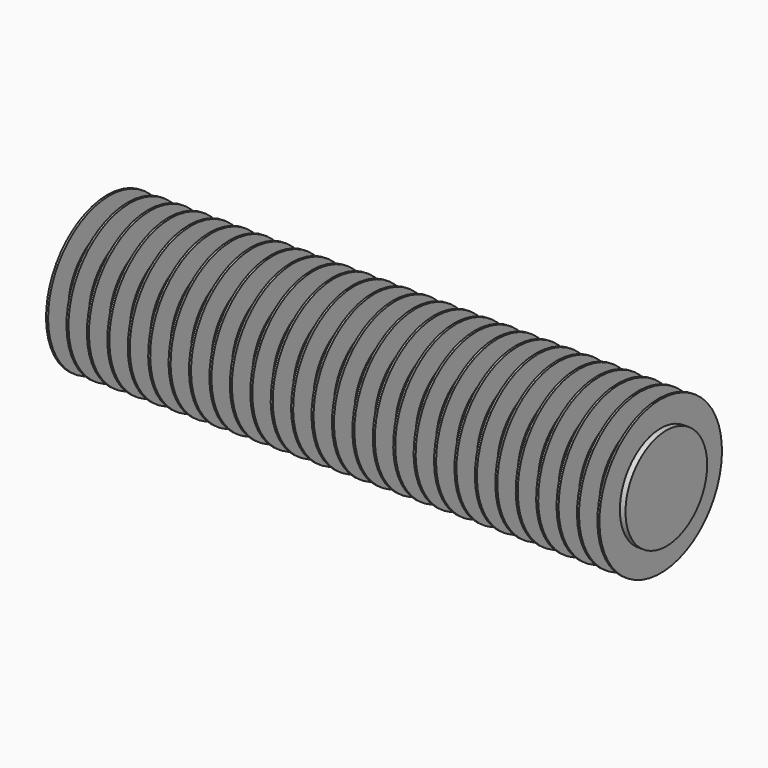
from build123d import *

# Parameters (mm, degrees)
F0_R          = 20
F1_DEPTH      = 110
F1_DEPTH_BACK = 110
F2_W          = 0.8
F2_H          = 13


with BuildPart() as f1:
    # F0 (on Right) → F1 (new body, two sides)
    with BuildSketch(Plane.YZ) as f1_sk:
        Circle(F0_R)
    extrude(amount=F1_DEPTH)
    extrude(f1_sk.sketch, amount=-F1_DEPTH_BACK)

    # F2 (on Front) → F3 (revolve)
    with BuildSketch(Plane.XZ):
        with Locations((-108.6, 23.5)):
            Rectangle(F2_W, F2_H)
        with Locations((-100.6, 23.5)):
            Rectangle(F2_W, F2_H)
        with Locations((-92.6, 23.5)):
            Rectangle(F2_W, F2_H)
        with Locations((-84.6, 23.5)):
            Rectangle(F2_W, F2_H)
        with Locations((-76.6, 23.5)):
            Rectangle(F2_W, F2_H)
        with Locations((-68.6, 23.5)):
            Rectangle(F2_W, F2_H)
        with Locations((-60.6, 23.5)):
            Rectangle(F2_W, F2_H)
        with Locations((-52.6, 23.5)):
            Rectangle(F2_W, F2_H)
        with Locations((-44.6, 23.5)):
            Rectangle(F2_W, F2_H)
        with Locations((-36.6, 23.5)):
            Rectangle(F2_W, F2_H)
        with Locations((-28.6, 23.5)):
            Rectangle(F2_W, F2_H)
        with Locations((-20.6, 23.5)):
            Rectangle(F2_W, F2_H)
        with Locations((-12.6, 23.5)):
            Rectangle(F2_W, F2_H)
        with Locations((-4.6, 23.5)):
            Rectangle(F2_W, F2_H)
        with Locations((3.4, 23.5)):
            Rectangle(F2_W, F2_H)
        with Locations((11.4, 23.5)):
            Rectangle(F2_W, F2_H)
        with Locations((19.4, 23.5)):
            Rectangle(F2_W, F2_H)
        with Locations((27.4, 23.5)):
            Rectangle(F2_W, F2_H)
        with Locations((35.4, 23.5)):
            Rectangle(F2_W, F2_H)
        with Locations((43.4, 23.5)):
            Rectangle(F2_W, F2_H)
        with Locations((51.4, 23.5)):
            Rectangle(F2_W, F2_H)
        with Locations((59.4, 23.5)):
            Rectangle(F2_W, F2_H)
        with Locations((67.4, 23.5)):
            Rectangle(F2_W, F2_H)
        with Locations((75.4, 23.5)):
            Rectangle(F2_W, F2_H)
        with Locations((83.4, 23.5)):
            Rectangle(F2_W, F2_H)
        with Locations((91.4, 23.5)):
            Rectangle(F2_W, F2_H)
        with Locations((99.4, 23.5)):
            Rectangle(F2_W, F2_H)
        with Locations((107.4, 23.5)):
            Rectangle(F2_W, F2_H)
    revolve(axis=Axis((0, 0, 0), (-1, 0, 0)))


solid = f1.part
